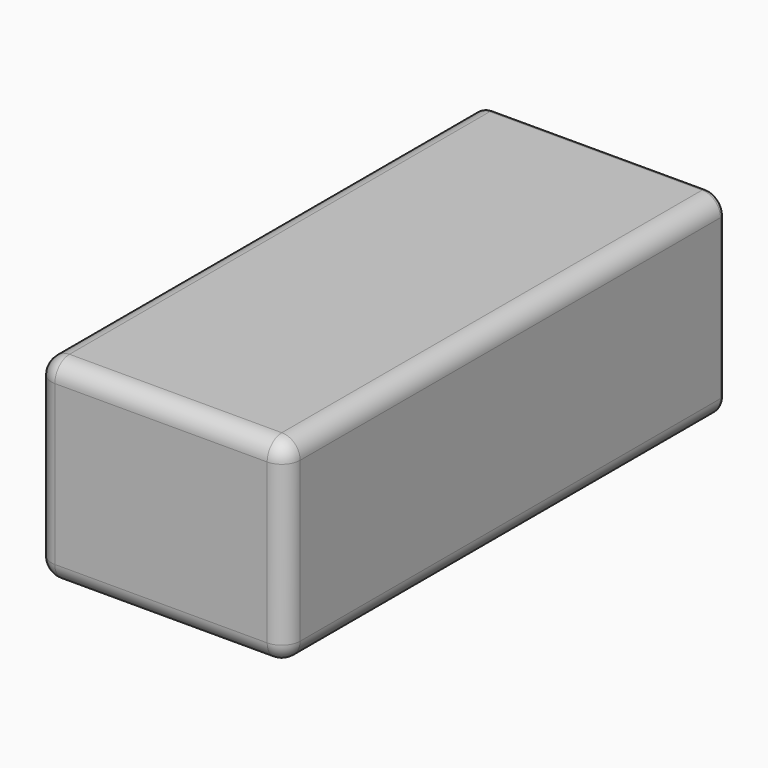
from build123d import *

# Parameters (mm, degrees)
F1_DEPTH = 3.5
F2_DEPTH = 150
F3_R     = 5
F4_R     = 1.5


with BuildPart() as f1:
    # F0 (on Front) → F1 (new body)
    with BuildSketch(Plane.XZ):
        with BuildLine():
            ThreePointArc((3.5, 8.5), (4.9644660941, 4.9644660941), (8.5, 3.5))
            Line((8.5, 3.5), (59.5, 3.5))
            ThreePointArc((59.5, 3.5), (63.0355339059, 4.9644660941), (64.5, 8.5))
            Line((64.5, 8.5), (64.5, 45))
            ThreePointArc((64.5, 45), (63.0355339059, 48.5355339059), (59.5, 50))
            Line((59.5, 50), (8.5, 50))
            ThreePointArc((8.5, 50), (4.9644660941, 48.5355339059), (3.5, 45))
            Line((3.5, 45), (3.5, 8.5))
        make_face()
    extrude(amount=-F1_DEPTH)

    # F0 (on Front) → F2 (join)
    with BuildSketch(Plane.XZ):
        with BuildLine():
            ThreePointArc((0, 5), (1.4644660941, 1.4644660941), (5, 0))
            Line((5, 0), (63, 0))
            ThreePointArc((63, 0), (66.5355339059, 1.4644660941), (68, 5))
            Line((68, 5), (68, 48.5))
            ThreePointArc((68, 48.5), (66.5355339059, 52.0355339059), (63, 53.5))
            Line((63, 53.5), (5, 53.5))
            ThreePointArc((5, 53.5), (1.4644660941, 52.0355339059), (0, 48.5))
            Line((0, 48.5), (0, 5))
        make_face()
        with BuildLine():
            Line((59.5, 3.5), (8.5, 3.5))
            ThreePointArc((8.5, 3.5), (4.9644660941, 4.9644660941), (3.5, 8.5))
            Line((3.5, 8.5), (3.5, 45))
            ThreePointArc((3.5, 45), (4.9644660941, 48.5355339059), (8.5, 50))
            Line((8.5, 50), (59.5, 50))
            ThreePointArc((59.5, 50), (63.0355339059, 48.5355339059), (64.5, 45))
            Line((64.5, 45), (64.5, 8.5))
            ThreePointArc((64.5, 8.5), (63.0355339059, 4.9644660941), (59.5, 3.5))
        make_face(mode=Mode.SUBTRACT)
    extrude(amount=-F2_DEPTH)

    # F3
    f3_edges = [f1.edges().sort_by_distance(p)[0] for p in [
        (34, 0, 53.5),
        (1.464466, 0, 52.035534),
        (0, 0, 26.75),
        (1.464466, 0, 1.464466),
        (34, 0, 0),
        (66.535534, 0, 1.464466),
        (68, 0, 26.75),
        (66.535534, 0, 52.035534),
    ]]
    fillet(f3_edges, radius=F3_R)

    # F4
    f4_edges = [f1.edges().sort_by_distance(p)[0] for p in [
        (34, 150, 53.5),
        (34, 150, 50),
        (1.464466, 150, 52.035534),
        (4.964466, 150, 48.535534),
        (0, 150, 26.75),
        (3.5, 150, 26.75),
        (1.464466, 150, 1.464466),
        (4.964466, 150, 4.964466),
        (34, 150, 3.5),
        (34, 150, 0),
        (66.535534, 150, 1.464466),
        (63.035534, 150, 4.964466),
        (68, 150, 26.75),
        (64.5, 150, 26.75),
        (63.035534, 150, 48.535534),
        (66.535534, 150, 52.035534),
    ]]
    fillet(f4_edges, radius=F4_R)


solid = f1.part
